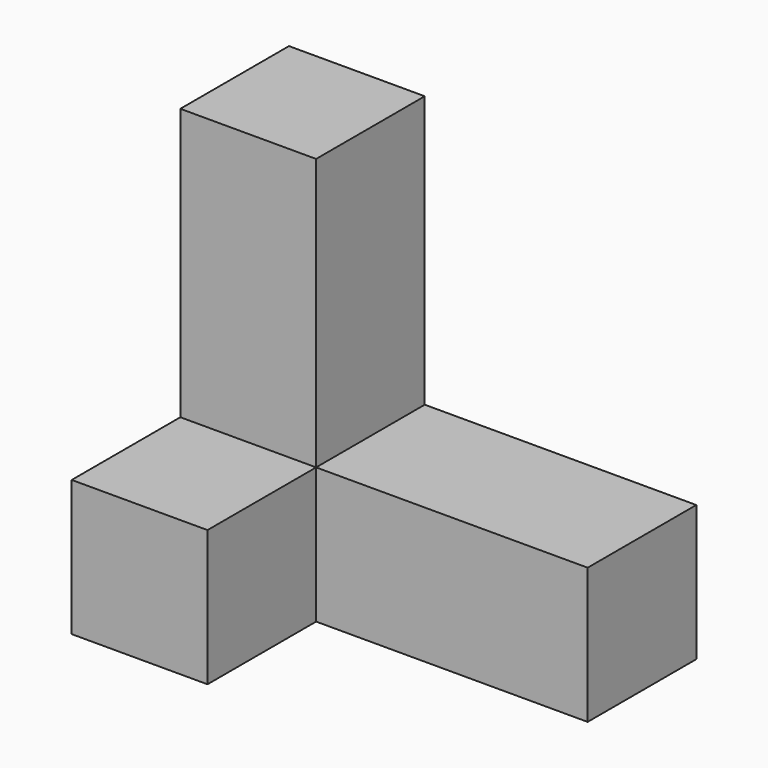
from build123d import *

# Parameters (mm, degrees)
F0_W     = 38.1
F0_H     = 19.05
F1_DEPTH = 19.05
F2_W     = 19.05
F2_H     = 19.05
F3_DEPTH = 19.05


with BuildPart() as f1:
    # F0 (on Front) → F1 (new body)
    with BuildSketch(Plane.XZ):
        Polygon((19.05, 57.15), (0, 57.15), (0, 0), (19.05, 0), (19.05, 19.05), align=None)
        with Locations((38.1, 9.525)):
            Rectangle(F0_W, F0_H)
    extrude(amount=F1_DEPTH)

    # F2 (on face) → F3 (join)
    with BuildSketch(Plane.XZ.offset(19.05)):
        with Locations((9.525, 9.525)):
            Rectangle(F2_W, F2_H)
    extrude(amount=F3_DEPTH)


solid = f1.part
